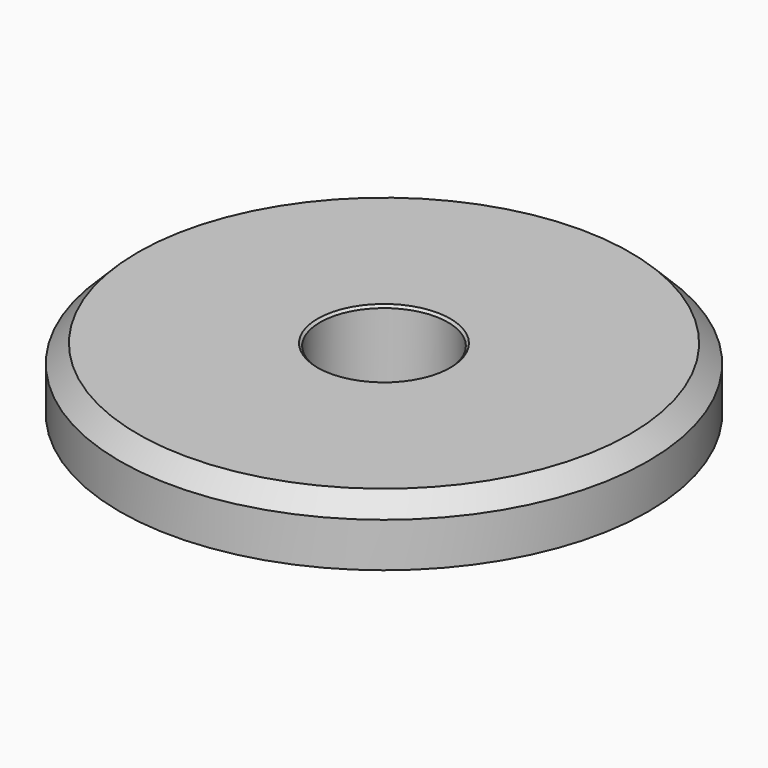
from build123d import *

# Parameters (mm, degrees)
F2_SIZE = 0.75
F3_SIZE = 0.1


with BuildPart() as f1:
    # F0 (on Front) → F1 (revolve)
    with BuildSketch(Plane.XZ):
        Polygon((-11, 2.6), (-11, 0), (-3.97, 0), (-3.97, -3.5), (-2.663974, -3.5), (-2.663974, 2.6), align=None)
    revolve(axis=Axis((0, 0, -0.45), (0, 0, -1)))

    # F2
    f2_edges = [f1.edges().sort_by_distance(p)[0] for p in [
        (11, 0, 2.6),
    ]]
    chamfer(f2_edges, length=F2_SIZE)

    # F3
    f3_edges = [f1.edges().sort_by_distance(p)[0] for p in [
        (2.663974, 0, 2.6),
    ]]
    chamfer(f3_edges, length=F3_SIZE)


solid = f1.part
